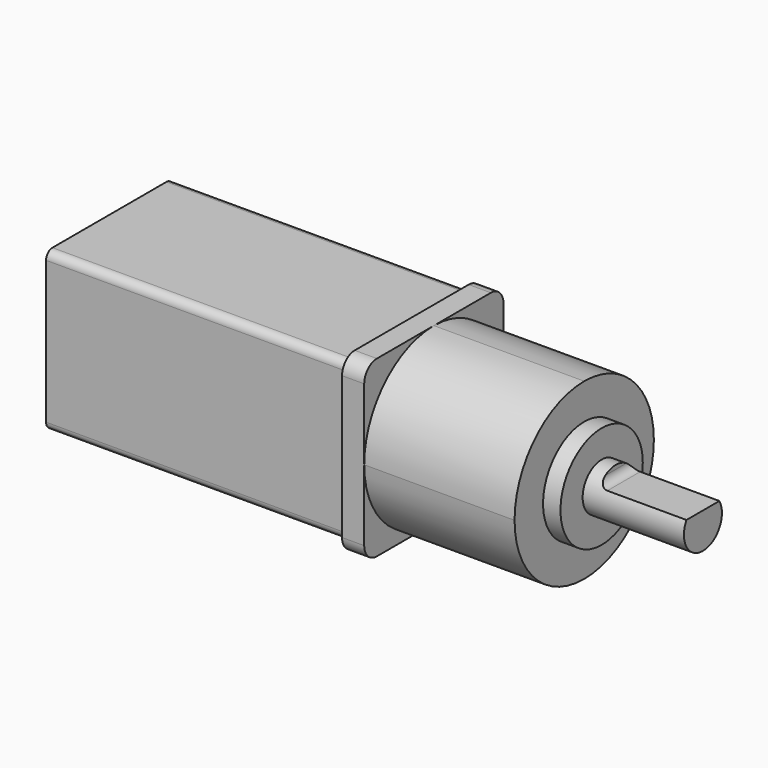
from build123d import *

# Parameters (mm, degrees)
F0_W      = 2.8
F0_H      = 22
F1_DEPTH  = 11
F2_R      = 2
F4_DEPTH  = 19
F5_R      = 3
F6_DEPTH  = 15
F8_DEPTH  = 11
F9_R      = 1
F10_W     = 20
F10_H     = 20
F11_DEPTH = 38.2
F12_R     = 1
F5_R_2    = 6.5
F13_DEPTH = 2.2


with BuildPart() as f1:
    # F0 (on Top) → F1 (new body, symmetric)
    with BuildSketch(Plane.XY):
        with Locations((1.4, 0)):
            Rectangle(F0_W, F0_H)
    extrude(amount=F1_DEPTH, both=True)

    # F2
    f2_edges = [f1.edges().sort_by_distance(p)[0] for p in [
        (1.4, -11, 11),
        (1.4, 11, 11),
        (1.4, -11, -11),
        (1.4, 11, -11),
    ]]
    fillet(f2_edges, radius=F2_R)

    # F3 (on face) → F4 (join)
    with BuildSketch(Plane.YZ.offset(2.8)):
        with BuildLine():
            ThreePointArc((0, -11), (7.7781745931, -7.7781745931), (11, 0))
            ThreePointArc((11, 0), (7.7781745931, 7.7781745931), (0, 11))
            ThreePointArc((0, 11), (-7.7781745931, 7.7781745931), (-11, 0))
            ThreePointArc((-11, 0), (-7.7781745931, -7.7781745931), (0, -11))
        make_face()
        with BuildLine():
            ThreePointArc((0, -11), (7.7781745931, -7.7781745931), (11, 0))
            ThreePointArc((11, 0), (7.7781745931, 7.7781745931), (0, 11))
            ThreePointArc((0, 11), (-7.7781745931, 7.7781745931), (-11, 0))
            ThreePointArc((-11, 0), (-7.7781745931, -7.7781745931), (0, -11))
        make_face()
        with BuildLine():
            ThreePointArc((0, -11), (7.7781745931, -7.7781745931), (11, 0))
            ThreePointArc((11, 0), (7.7781745931, 7.7781745931), (0, 11))
            ThreePointArc((0, 11), (-7.7781745931, 7.7781745931), (-11, 0))
            ThreePointArc((-11, 0), (-7.7781745931, -7.7781745931), (0, -11))
        make_face()
        with BuildLine():
            ThreePointArc((0, -11), (7.7781745931, -7.7781745931), (11, 0))
            ThreePointArc((11, 0), (7.7781745931, 7.7781745931), (0, 11))
            ThreePointArc((0, 11), (-7.7781745931, 7.7781745931), (-11, 0))
            ThreePointArc((-11, 0), (-7.7781745931, -7.7781745931), (0, -11))
        make_face()
        with BuildLine():
            ThreePointArc((0, -11), (7.7781745931, -7.7781745931), (11, 0))
            ThreePointArc((11, 0), (7.7781745931, 7.7781745931), (0, 11))
            ThreePointArc((0, 11), (-7.7781745931, 7.7781745931), (-11, 0))
            ThreePointArc((-11, 0), (-7.7781745931, -7.7781745931), (0, -11))
        make_face()
    extrude(amount=F4_DEPTH)

    # F5 (on face) → F6 (join)
    with BuildSketch(Plane.YZ.offset(21.8)):
        Circle(F5_R)
    extrude(amount=F6_DEPTH)

    # F7 (on face) → F8 (cut)
    with BuildSketch(Plane.YZ.offset(36.8)):
        with BuildLine():
            ThreePointArc((2.5980762114, 1.5), (0, 3), (-2.5980762114, 1.5))
            Line((-2.5980762114, 1.5), (2.5980762114, 1.5))
        make_face()
    extrude(amount=-F8_DEPTH, mode=Mode.SUBTRACT)

    # F9
    f9_edges = [f1.edges().sort_by_distance(p)[0] for p in [
        (25.8, 0, 1.5),
    ]]
    fillet(f9_edges, radius=F9_R)

    # F10 (on face) → F11 (join)
    with BuildSketch(Plane(origin=(0, 0, 0), x_dir=(0, -1, 0), z_dir=(-1, 0, 0))):
        Rectangle(F10_W, F10_H)
    extrude(amount=F11_DEPTH)

    # F12
    f12_edges = [f1.edges().sort_by_distance(p)[0] for p in [
        (-19.1, -10, 10),
        (-19.1, 10, 10),
        (-19.1, -10, -10),
        (-19.1, 10, -10),
    ]]
    fillet(f12_edges, radius=F12_R)

    # F5 (on face) → F13 (join)
    with BuildSketch(Plane.YZ.offset(21.8)):
        Circle(F5_R_2)
        Circle(F5_R, mode=Mode.SUBTRACT)
    extrude(amount=F13_DEPTH)


solid = f1.part
